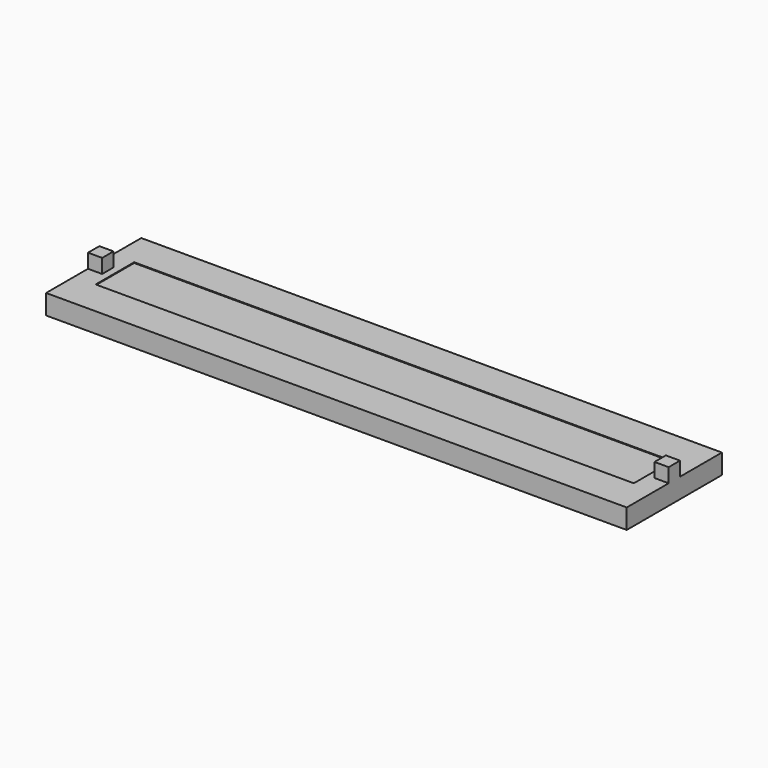
from build123d import *

# Parameters (mm, degrees)
F0_W     = 205
F0_H     = 42
F1_DEPTH = 7
F2_W     = 5
F2_H     = 5
F3_DEPTH = 5
F2_W_2   = 190
F2_H_2   = 17
F4_DEPTH = 0.25


with BuildPart() as f1:
    # F0 (on Top) → F1 (new body)
    with BuildSketch(Plane.XY):
        with Locations((0, -26.665802)):
            Rectangle(F0_W, F0_H)
    extrude(amount=F1_DEPTH)

    # F2 (on face) → F3 (join)
    with BuildSketch(Plane.XY.offset(7)):
        with Locations((-100, -26.665802)):
            Rectangle(F2_W, F2_H)
        with Locations((100, -26.665802)):
            Rectangle(F2_W, F2_H)
    extrude(amount=F3_DEPTH)

    # F2 (on face) → F4 (cut)
    with BuildSketch(Plane.XY.offset(7)):
        with Locations((0, -26.665802)):
            Rectangle(F2_W_2, F2_H_2)
    extrude(amount=-F4_DEPTH, mode=Mode.SUBTRACT)


solid = f1.part
